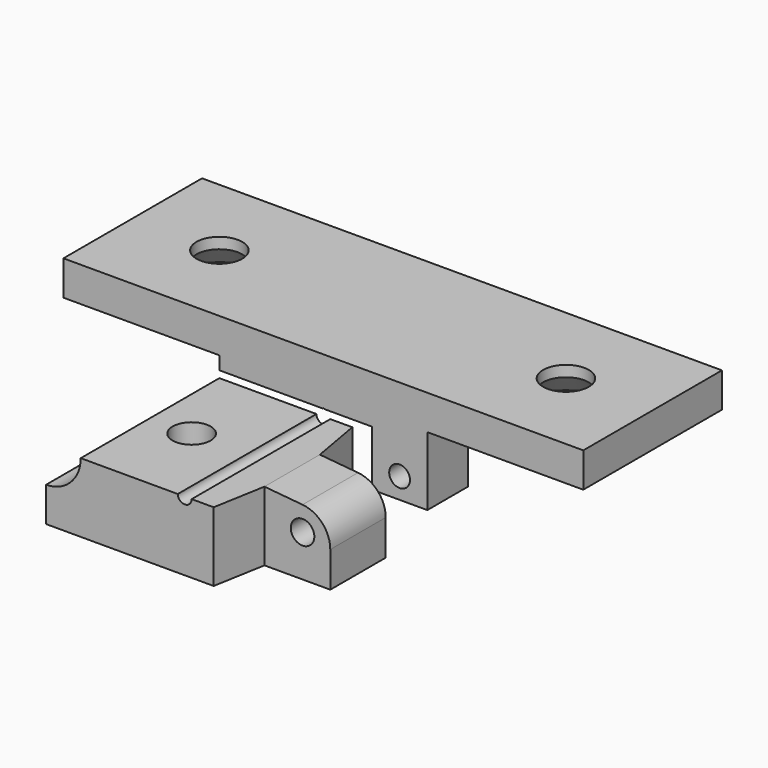
from build123d import *

# Parameters (mm, degrees)
F0_R           = 1.5
F1_DEPTH       = 25
F3_W           = 75
F3_H           = 25
F4_DEPTH       = 5
F2_R           = 4.2
F5_DEPTH       = 6
F6_D           = 6.6
F6_CSINK_D     = 13.44
F6_CSINK_ANGLE = 90
F7_W           = 10.4
F7_H           = 8
F8_DEPTH       = 25
F9_R           = 1.7
F10_DEPTH      = 25
F12_D          = 5.5
F14_DEPTH      = 10.001


with BuildPart() as f1:
    # F0 (on Front) → F1 (new body)
    with BuildSketch(Plane.XZ):
        Polygon((5.7870310192, -10.4857282235), (12.6809650045, -10.4857282235), (12.6809650045, -18.4857282235), (20.6809650045, -18.4857282235), (20.6809650045, -8.5796622039), (-9.3190349955, -8.5796622039), (-9.3190349955, -10.4857282235), (5.5748989899, -10.4857282235), (5.6809650045, -10.3796622039), align=None)
        with Locations((16.6809650045, -15.4857282235)):
            Circle(F0_R, mode=Mode.SUBTRACT)
    extrude(amount=F1_DEPTH)

    # F3 (on face) → F4 (join)
    with BuildSketch(Plane.XY.offset(-8.5796622039)):
        with Locations((5.6809650045, -12.5)):
            Rectangle(F3_W, F3_H)
    extrude(amount=F4_DEPTH)

    # F2 (on face) → F5 (cut)
    with BuildSketch(Plane(origin=(0, 0, -10.4857282235), x_dir=(1, 0, 0), z_dir=(0, 0, -1))):
        with Locations((-3.3190349955, 12.5)):
            Circle(F2_R)
    extrude(amount=-F5_DEPTH, mode=Mode.SUBTRACT)

    # F6 (through all)
    with Locations(Plane(origin=(0, 0, -8.5796622039), x_dir=(1, 0, 0), z_dir=(0, 0, -1))):
        with Locations((30.6809650045, 12.5), (-19.3190349955, 12.5)):
            CounterSinkHole(F6_D / 2, F6_CSINK_D / 2, counter_sink_angle=F6_CSINK_ANGLE)

    # F7 (on face) → F8 (cut)
    with BuildSketch(Plane(origin=(12.6809650045, 0, 0), x_dir=(0, -1, 0), z_dir=(-1, 0, 0))):
        with Locations((12.5, -14.4857282235)):
            Rectangle(F7_W, F7_H)
    extrude(amount=-F8_DEPTH, mode=Mode.SUBTRACT)


with BuildPart() as f10:
    # F9 (on face) → F10 (new body)
    with BuildSketch(Plane.XZ.offset(25)):
        with BuildLine():
            ThreePointArc((6.6809650045, -11.4800873139), (5.6809650045, -12.4800873139), (4.6809650045, -11.4800873139))
            Line((4.6809650045, -11.4800873139), (-9.3190349955, -11.4800873139))
            ThreePointArc((-9.3190349955, -11.4800873139), (-10.7835010895, -15.0156212198), (-14.3190349955, -16.4800873139))
            Line((-14.3190349955, -16.4800873139), (-14.3190349955, -21.4800873139))
            Line((-14.3190349955, -21.4800873139), (20.6809650045, -21.4800873139))
            Line((20.6809650045, -21.4800873139), (20.6809650045, -16.3703354811))
            ThreePointArc((20.6809650045, -16.3703354811), (19.5307235765, -13.4028120691), (16.6809650045, -11.9857282235))
            Line((16.6809650045, -11.9857282235), (11.1809650045, -11.4800873139))
            Line((11.1809650045, -11.4800873139), (6.6809650045, -11.4800873139))
        make_face()
        with Locations((16.6809650045, -15.4857282235)):
            Circle(F9_R, mode=Mode.SUBTRACT)
    extrude(amount=F10_DEPTH)

    # F12 (through all)
    with Locations(Plane(origin=(0, 0, -21.4800873139), x_dir=(1, 0, 0), z_dir=(0, 0, -1))):
        with Locations((-3.3190349955, 37.5)):
            Hole(F12_D / 2)

    # F13 (on face) → F14 (cut, through all)
    with BuildSketch(Plane.XY.offset(-11.4800873139)):
        Polygon((39.8585126492, -25), (9.8585126492, -25), (11.1809650045, -32.5), (39.8585126492, -32.5), align=None)
        Polygon((11.1809650045, -42.5), (9.8585126492, -50), (39.8585126492, -50), (39.8585126492, -42.5), align=None)
    extrude(amount=-F14_DEPTH, mode=Mode.SUBTRACT)


solid = Compound([f1.part, f10.part])
